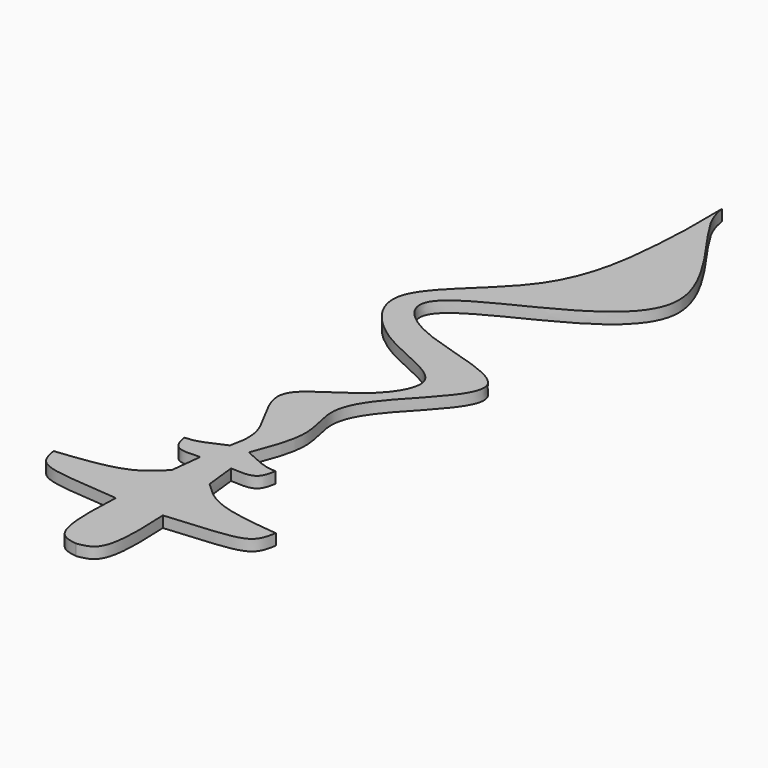
from build123d import *

# Parameters (mm, degrees)
F1_DEPTH = 1.27


with BuildPart() as f1:
    # F0 (on Top) → F1 (new body)
    with BuildSketch(Plane.XY):
        with BuildLine():
            add(Edge.make_bspline(
                [(0, 12.7), (0.3800916334, 12.2044041634), (0.7601832667, 11.7088083267), (1.0827156948, 10.683869943)],
                knots=[0, 0, 0, 0, 0.1559408316, 0.1559408316, 0.1559408316, 0.1559408316], degree=3))
            add(Edge.make_bspline(
                [(0, 12.7), (-0.3800916334, 12.2044041634), (-0.7601832667, 11.7088083267), (-1.0827156948, 10.683869943)],
                knots=[0, 0, 0, 0, 0.1559408316, 0.1559408316, 0.1559408316, 0.1559408316], degree=3))
            add(Edge.make_bspline(
                [(-1.0827156948, 10.683869943), (-1.3444605602, 9.8521013023), (-1.5682979941, 8.6717174183), (-1.7618598873, 7.2805596239)],
                knots=[0.1559408316, 0.1559408316, 0.1559408316, 0.1559408316, 0.2824915547, 0.2824915547, 0.2824915547, 0.2824915547], degree=3))
            add(Edge.make_bspline(
                [(-1.7618598873, 7.2805596239), (-1.9126928474, 6.196500956), (-2.0451416094, 4.9844541742), (-2.1628174545, 3.7096434608)],
                knots=[0.2824915547, 0.2824915547, 0.2824915547, 0.2824915547, 0.3811061107, 0.3811061107, 0.3811061107, 0.3811061107], degree=3))
            add(Edge.make_bspline(
                [(-2.1628174545, 3.7096434608), (-2.3355144644, 1.8387752449), (-2.5137078052, -0.6985925554), (-2.6592594026, -3.1224003296), (-2.6864501107, -3.6212965633)],
                knots=[0.3811061107, 0.3811061107, 0.3811061107, 0.3811061107, 0.5258294304, 0.5641608875, 0.5641608875, 0.5641608875, 0.5641608875], degree=3))
            add(Edge.make_bspline(
                [(-2.6864501107, -3.6212965633), (-2.8869015978, -7.299188722), (-2.9204908684, -12.2470227585), (-0.7597851469, -12.5821549543), (0, -12.7)],
                knots=[0.5641608875, 0.5641608875, 0.5641608875, 0.5641608875, 0.8467426263, 1, 1, 1, 1], degree=3))
            add(Edge.make_bspline(
                [(2.6864501107, -3.6212965633), (2.8869015978, -7.299188722), (2.9204908684, -12.2470227585), (0.7597851469, -12.5821549543), (0, -12.7)],
                knots=[0.5641608875, 0.5641608875, 0.5641608875, 0.5641608875, 0.8467426263, 1, 1, 1, 1], degree=3))
            add(Edge.make_bspline(
                [(2.1628174545, 3.7096434608), (2.3355144644, 1.8387752449), (2.5137078052, -0.6985925554), (2.6592594026, -3.1224003296), (2.6864501107, -3.6212965633)],
                knots=[0.3811061107, 0.3811061107, 0.3811061107, 0.3811061107, 0.5258294304, 0.5641608875, 0.5641608875, 0.5641608875, 0.5641608875], degree=3))
            add(Edge.make_bspline(
                [(1.7618598873, 7.2805596239), (1.9126928474, 6.196500956), (2.0451416094, 4.9844541742), (2.1628174545, 3.7096434608)],
                knots=[0.2824915547, 0.2824915547, 0.2824915547, 0.2824915547, 0.3811061107, 0.3811061107, 0.3811061107, 0.3811061107], degree=3))
            add(Edge.make_bspline(
                [(1.0827156948, 10.683869943), (1.3444605602, 9.8521013023), (1.5682979941, 8.6717174183), (1.7618598873, 7.2805596239)],
                knots=[0.1559408316, 0.1559408316, 0.1559408316, 0.1559408316, 0.2824915547, 0.2824915547, 0.2824915547, 0.2824915547], degree=3))
        make_face()
        with BuildLine():
            add(Edge.make_bspline(
                [(0, 12.7), (-0.3800916334, 12.2044041634), (-0.7601832667, 11.7088083267), (-1.0827156948, 10.683869943)],
                knots=[0, 0, 0, 0, 0.1559408316, 0.1559408316, 0.1559408316, 0.1559408316], degree=3))
            add(Edge.make_bspline(
                [(0, 12.7), (0.3800916334, 12.2044041634), (0.7601832667, 11.7088083267), (1.0827156948, 10.683869943)],
                knots=[0, 0, 0, 0, 0.1559408316, 0.1559408316, 0.1559408316, 0.1559408316], degree=3))
            add(Edge.make_bspline(
                [(1.0827156948, 10.683869943), (1.9098469829, 12.852339533), (3.4253618828, 16.8255273698), (1.2509596555, 21.557638376), (4.0023179181, 26.5674617243), (14.187334293, 35.6111254083), (-1.559349152, 37.6016964418), (-7.321510196, 43.8233216206), (5.1488107263, 48.9066528238), (16.9989759825, 56.8805227732), (5.2624970704, 70.2965587314), (4.7953209333, 72.9532511058), (4.6427020048, 73.8211497664)],
                knots=[0, 0, 0, 0, 0.089770634, 0.1644826346, 0.2499442397, 0.3558236885, 0.4764304532, 0.5603198883, 0.6787288488, 0.7997788903, 0.9345909844, 1, 1, 1, 1], degree=3))
            add(Edge.make_bspline(
                [(4.6427020048, 68.6008632183), (4.6427020048, 70.3409587344), (4.6427020048, 72.0810542504), (4.6427020048, 73.8211497664)],
                knots=[0, 0, 0, 0, 5.2202865481, 5.2202865481, 5.2202865481, 5.2202865481], degree=3))
            add(Edge.make_bspline(
                [(-1.0827156948, 10.683869943), (-0.804671433, 11.9337713454), (-0.1642728767, 14.8125757794), (-6.1544860835, 21.9019880848), (2.2796937999, 25.200552819), (7.0095449827, 32.419424332), (-3.5454031873, 34.9063161859), (-10.4932992333, 43.4541779868), (3.8966116903, 51.976351586), (4.3849728215, 62.8580976001), (4.6427020048, 68.6008632183)],
                knots=[0, 0, 0, 0, 0.0865370674, 0.1993143561, 0.3154763959, 0.4211903577, 0.5487031229, 0.6708754183, 0.8263067959, 1, 1, 1, 1], degree=3))
        make_face()
        with BuildLine():
            add(Edge.make_bspline(
                [(-1.0827156948, 10.683869943), (-1.3444605602, 9.8521013023), (-1.5682979941, 8.6717174183), (-1.7618598873, 7.2805596239)],
                knots=[0.1559408316, 0.1559408316, 0.1559408316, 0.1559408316, 0.2824915547, 0.2824915547, 0.2824915547, 0.2824915547], degree=3))
            add(Edge.make_bspline(
                [(-1.0827156948, 10.683869943), (-2.1267618333, 10.1983661781), (-3.8405913051, 9.4013988505), (-4.8213091655, 9.355781178), (-5.2045844495, 9.3379532918)],
                knots=[0, 0, 0, 0, 0.6091890446, 1, 1, 1, 1], degree=3))
            add(Edge.make_bspline(
                [(-1.7618598873, 7.2805596239), (-2.8182922688, 7.2144531673), (-4.7672531691, 7.0926107956), (-5.0672303142, 8.633186267), (-5.2045844495, 9.3379532918)],
                knots=[0, 0, 0, 0, 0.5424516896, 1, 1, 1, 1], degree=3))
        make_face()
        with BuildLine():
            add(Edge.make_bspline(
                [(1.0827156948, 10.683869943), (2.1267618333, 10.1983661781), (3.8405913051, 9.4013988505), (4.8213091655, 9.355781178), (5.2045844495, 9.3379532918)],
                knots=[0, 0, 0, 0, 0.6091890446, 1, 1, 1, 1], degree=3))
            add(Edge.make_bspline(
                [(1.0827156948, 10.683869943), (1.3444605602, 9.8521013023), (1.5682979941, 8.6717174183), (1.7618598873, 7.2805596239)],
                knots=[0.1559408316, 0.1559408316, 0.1559408316, 0.1559408316, 0.2824915547, 0.2824915547, 0.2824915547, 0.2824915547], degree=3))
            add(Edge.make_bspline(
                [(1.7618598873, 7.2805596239), (2.8182922688, 7.2144531673), (4.7672531691, 7.0926107956), (5.0672303142, 8.633186267), (5.2045844495, 9.3379532918)],
                knots=[0, 0, 0, 0, 0.5424516896, 1, 1, 1, 1], degree=3))
        make_face()
        with BuildLine():
            add(Edge.make_bspline(
                [(-2.1628174545, 3.7096434608), (-2.3355144644, 1.8387752449), (-2.5137078052, -0.6985925554), (-2.6592594026, -3.1224003296), (-2.6864501107, -3.6212965633)],
                knots=[0.3811061107, 0.3811061107, 0.3811061107, 0.3811061107, 0.5258294304, 0.5641608875, 0.5641608875, 0.5641608875, 0.5641608875], degree=3))
            add(Edge.make_bspline(
                [(-2.1628174545, 3.7096434608), (-3.0238371974, 2.863074271), (-5.0960971834, 0.8143350689), (-9.8902523058, 0.3016137657), (-12.7, 0)],
                knots=[0, 0, 0, 0, 0.413748974, 1, 1, 1, 1], degree=3))
            add(Edge.make_bspline(
                [(-2.6864501107, -3.6212965633), (-4.6427020048, -3.4702500402), (-8.1475556903, -3.1996470434), (-12.2126146504, -2.5896991573), (-12.5504507619, -0.7946504684), (-12.7, 0)],
                knots=[0, 0, 0, 0, 0.4132048691, 0.7402248755, 1, 1, 1, 1], degree=3))
        make_face()
        with BuildLine():
            add(Edge.make_bspline(
                [(2.1628174545, 3.7096434608), (3.0238371974, 2.863074271), (5.0960971834, 0.8143350689), (9.8902523058, 0.3016137657), (12.7, 0)],
                knots=[0, 0, 0, 0, 0.413748974, 1, 1, 1, 1], degree=3))
            add(Edge.make_bspline(
                [(2.1628174545, 3.7096434608), (2.3355144644, 1.8387752449), (2.5137078052, -0.6985925554), (2.6592594026, -3.1224003296), (2.6864501107, -3.6212965633)],
                knots=[0.3811061107, 0.3811061107, 0.3811061107, 0.3811061107, 0.5258294304, 0.5641608875, 0.5641608875, 0.5641608875, 0.5641608875], degree=3))
            add(Edge.make_bspline(
                [(2.6864501107, -3.6212965633), (4.6427020048, -3.4702500402), (8.1475556903, -3.1996470434), (12.2126146504, -2.5896991573), (12.5504507619, -0.7946504684), (12.7, 0)],
                knots=[0, 0, 0, 0, 0.4132048691, 0.7402248755, 1, 1, 1, 1], degree=3))
        make_face()
    extrude(amount=F1_DEPTH)


solid = f1.part
